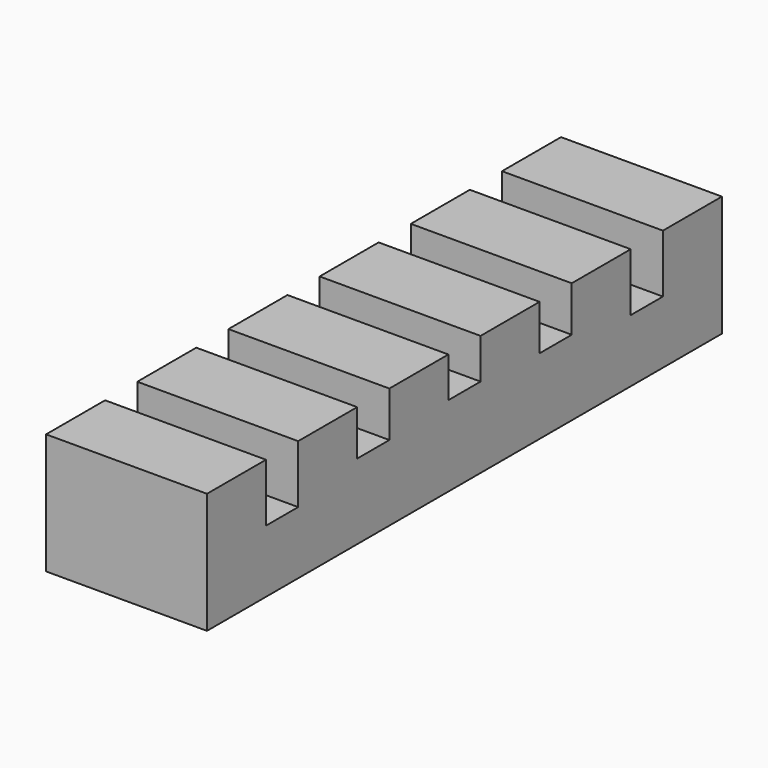
from build123d import *

# Parameters (mm, degrees)
F0_W     = 203.2
F0_H     = 152.4
F1_DEPTH = 406.4
F2_W     = 50.8
F2_H     = 88.9
F3_DEPTH = 203.201


with BuildPart() as f1:
    # F0 (on Front) → F1 (new body, symmetric)
    with BuildSketch(Plane.XZ):
        Rectangle(F0_W, F0_H)
    extrude(amount=F1_DEPTH, both=True)

    # F2 (on face) → F3 (cut, through all)
    with BuildSketch(Plane.YZ.offset(101.6)):
        with Locations((0, 69.85)):
            Rectangle(F2_W, F2_H)
        with Locations((-143.933333, 63.40613)):
            Rectangle(F2_W, F2_H)
        with Locations((-287.866667, 47.353515)):
            Rectangle(F2_W, F2_H)
        with Locations((143.933333, 63.40613)):
            Rectangle(F2_W, F2_H)
        with Locations((287.866667, 47.353515)):
            Rectangle(F2_W, F2_H)
    extrude(amount=-F3_DEPTH, mode=Mode.SUBTRACT)


solid = f1.part
